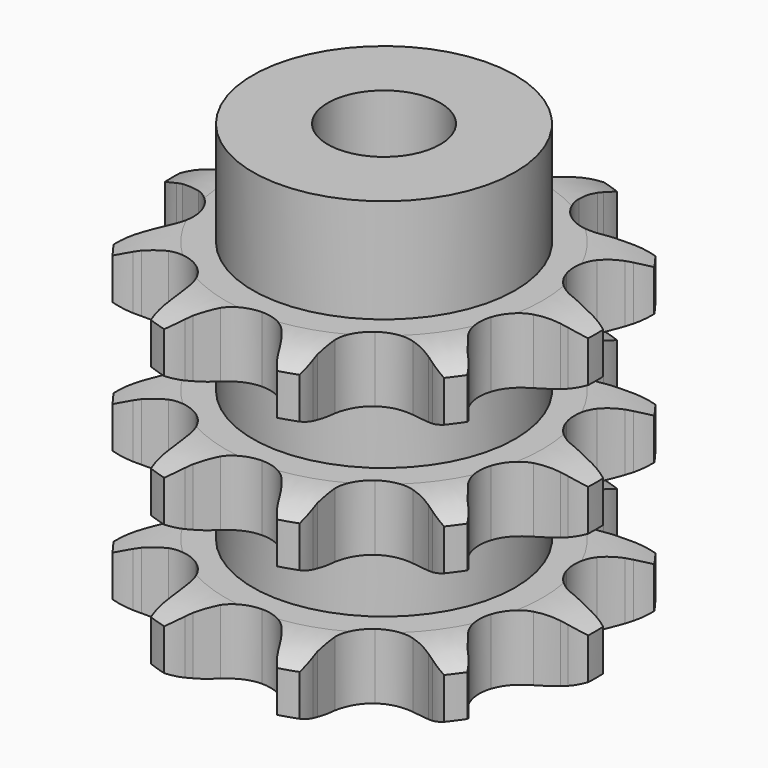
from build123d import *

# Parameters (mm, degrees)
PAD_DEPTH         = 34.9
SKETCH001_R       = 14
PAD001_DEPTH      = 46
SKETCH002_R       = 6
POCKET_DEPTH      = 0.001
POCKET_DEPTH_BACK = 46.001


with BuildPart() as part:
    # Sprocket → Pad (new body)
    with BuildSketch(Plane.XY):
        with BuildLine():
            ThreePointArc((-7.469505, 22.988772), (-6.053079, 21.819793), (-4.976484, 20.331936))
            Line((-4.976484, 20.331936), (-4.627193, 19.691291))
            ThreePointArc((-4.627193, 19.691291), (-3.995067, 18.667791), (-3.2561, 17.718547))
            ThreePointArc((-3.2561, 17.718547), (-1.789142, 16.623117), (0, 16.234657))
            ThreePointArc((0, 16.234657), (1.789142, 16.623117), (3.2561, 17.718547))
            ThreePointArc((3.2561, 17.718547), (3.995067, 18.667791), (4.627193, 19.691291))
            Line((4.627193, 19.691291), (4.976484, 20.331936))
            ThreePointArc((4.976484, 20.331936), (6.053079, 21.819793), (7.469505, 22.988772))
            ThreePointArc((7.469505, 22.988772), (7.928309, 21.210494), (7.924752, 19.373986))
            Line((7.924752, 19.373986), (7.830773, 18.650385))
            ThreePointArc((7.830773, 18.650385), (7.740576, 17.450802), (7.78046, 16.248493))
            ThreePointArc((7.78046, 16.248493), (8.323377, 14.500016), (9.542492, 13.134113))
            ThreePointArc((9.542492, 13.134113), (11.21827, 12.396753), (13.048941, 12.420718))
            Line((13.048941, 12.420718), (15.317728, 13.210793))
            ThreePointArc((15.317728, 13.210793), (15.644733, 13.372692), (15.976873, 13.523778))
            ThreePointArc((15.976873, 13.523778), (17.722396, 14.094673), (19.555417, 14.207842))
            ThreePointArc((19.555417, 14.207842), (18.881352, 12.499507), (17.799002, 11.015831))
            Line((17.799002, 11.015831), (17.297649, 10.485666))
            ThreePointArc((17.297649, 10.485666), (16.519581, 9.568199), (15.845149, 8.572067))
            ThreePointArc((15.845149, 8.572067), (15.256649, 6.838401), (15.440076, 5.016785))
            ThreePointArc((15.440076, 5.016785), (16.3624, 3.43525), (17.85753, 2.378597))
            Line((17.85753, 2.378597), (20.157412, 1.684221))
            ThreePointArc((20.157412, 1.684221), (20.517126, 1.622992), (20.874639, 1.549996))
            ThreePointArc((20.874639, 1.549996), (22.622361, 0.985867), (24.171825, 0))
            ThreePointArc((24.171825, 0), (22.622361, -0.985867), (20.874639, -1.549996))
            Line((20.874639, -1.549996), (20.157412, -1.684221))
            ThreePointArc((20.157412, -1.684221), (18.988668, -1.969131), (17.85753, -2.378597))
            ThreePointArc((17.85753, -2.378597), (16.3624, -3.43525), (15.440076, -5.016785))
            ThreePointArc((15.440076, -5.016785), (15.256649, -6.838401), (15.845149, -8.572067))
            Line((15.845149, -8.572067), (17.297649, -10.485666))
            ThreePointArc((17.297649, -10.485666), (17.552675, -10.746636), (17.799002, -11.015831))
            ThreePointArc((17.799002, -11.015831), (18.881352, -12.499507), (19.555417, -14.207842))
            ThreePointArc((19.555417, -14.207842), (17.722396, -14.094673), (15.976873, -13.523778))
            Line((15.976873, -13.523778), (15.317728, -13.210793))
            ThreePointArc((15.317728, -13.210793), (14.204729, -12.754319), (13.048941, -12.420718))
            ThreePointArc((13.048941, -12.420718), (11.21827, -12.396753), (9.542492, -13.134113))
            ThreePointArc((9.542492, -13.134113), (8.323377, -14.500016), (7.78046, -16.248493))
            Line((7.78046, -16.248493), (7.830773, -18.650385))
            ThreePointArc((7.830773, -18.650385), (7.883698, -19.011415), (7.924752, -19.373986))
            ThreePointArc((7.924752, -19.373986), (7.928309, -21.210494), (7.469505, -22.988772))
            ThreePointArc((7.469505, -22.988772), (6.053079, -21.819793), (4.976484, -20.331936))
            Line((4.976484, -20.331936), (4.627193, -19.691291))
            ThreePointArc((4.627193, -19.691291), (3.995067, -18.667791), (3.2561, -17.718547))
            ThreePointArc((3.2561, -17.718547), (1.789142, -16.623117), (0, -16.234657))
            ThreePointArc((0, -16.234657), (-1.789142, -16.623117), (-3.2561, -17.718547))
            Line((-3.2561, -17.718547), (-4.627193, -19.691291))
            ThreePointArc((-4.627193, -19.691291), (-4.796584, -20.014479), (-4.976484, -20.331936))
            ThreePointArc((-4.976484, -20.331936), (-6.053079, -21.819793), (-7.469505, -22.988772))
            ThreePointArc((-7.469505, -22.988772), (-7.928309, -21.210494), (-7.924752, -19.373986))
            Line((-7.924752, -19.373986), (-7.830773, -18.650385))
            ThreePointArc((-7.830773, -18.650385), (-7.740576, -17.450802), (-7.78046, -16.248493))
            ThreePointArc((-7.78046, -16.248493), (-8.323377, -14.500016), (-9.542492, -13.134113))
            ThreePointArc((-9.542492, -13.134113), (-11.21827, -12.396753), (-13.048941, -12.420718))
            Line((-13.048941, -12.420718), (-15.317728, -13.210793))
            ThreePointArc((-15.317728, -13.210793), (-15.644733, -13.372692), (-15.976873, -13.523778))
            ThreePointArc((-15.976873, -13.523778), (-17.722396, -14.094673), (-19.555417, -14.207842))
            ThreePointArc((-19.555417, -14.207842), (-18.881352, -12.499507), (-17.799002, -11.015831))
            Line((-17.799002, -11.015831), (-17.297649, -10.485666))
            ThreePointArc((-17.297649, -10.485666), (-16.519581, -9.568199), (-15.845149, -8.572067))
            ThreePointArc((-15.845149, -8.572067), (-15.256649, -6.838401), (-15.440076, -5.016785))
            ThreePointArc((-15.440076, -5.016785), (-16.3624, -3.43525), (-17.85753, -2.378597))
            Line((-17.85753, -2.378597), (-20.157412, -1.684221))
            ThreePointArc((-20.157412, -1.684221), (-20.517126, -1.622992), (-20.874639, -1.549996))
            ThreePointArc((-20.874639, -1.549996), (-22.622361, -0.985867), (-24.171825, 0))
            ThreePointArc((-24.171825, 0), (-22.622361, 0.985867), (-20.874639, 1.549996))
            Line((-20.874639, 1.549996), (-20.157412, 1.684221))
            ThreePointArc((-20.157412, 1.684221), (-18.988668, 1.969131), (-17.85753, 2.378597))
            ThreePointArc((-17.85753, 2.378597), (-16.3624, 3.43525), (-15.440076, 5.016785))
            ThreePointArc((-15.440076, 5.016785), (-15.256649, 6.838401), (-15.845149, 8.572067))
            Line((-15.845149, 8.572067), (-17.297649, 10.485666))
            ThreePointArc((-17.297649, 10.485666), (-17.552675, 10.746636), (-17.799002, 11.015831))
            ThreePointArc((-17.799002, 11.015831), (-18.881352, 12.499507), (-19.555417, 14.207842))
            ThreePointArc((-19.555417, 14.207842), (-17.722396, 14.094673), (-15.976873, 13.523778))
            Line((-15.976873, 13.523778), (-15.317728, 13.210793))
            ThreePointArc((-15.317728, 13.210793), (-14.204729, 12.754319), (-13.048941, 12.420718))
            ThreePointArc((-13.048941, 12.420718), (-11.21827, 12.396753), (-9.542492, 13.134113))
            ThreePointArc((-9.542492, 13.134113), (-8.323377, 14.500016), (-7.78046, 16.248493))
            Line((-7.78046, 16.248493), (-7.830773, 18.650385))
            ThreePointArc((-7.830773, 18.650385), (-7.883698, 19.011415), (-7.924752, 19.373986))
            ThreePointArc((-7.924752, 19.373986), (-7.928309, 21.210494), (-7.469505, 22.988772))
        make_face()
    extrude(amount=PAD_DEPTH)

    # Sketch → Groove (revolve, cut)
    with BuildSketch(Plane.XZ):
        with BuildLine():
            ThreePointArc((16.933431, 0), (19.84032, 0.329167), (22.6, 1.3))
            Line((22.6, 1.3), (22.6, 5.7))
            ThreePointArc((22.6, 5.7), (19.84032, 6.670833), (16.933431, 7))
            Line((14, 7), (16.933431, 7))
            Line((14, 7), (14, 13.95))
            Line((14, 13.95), (16.933431, 13.95))
            ThreePointArc((16.933431, 13.95), (19.84032, 14.279167), (22.6, 15.25))
            Line((22.6, 19.65), (22.6, 15.25))
            ThreePointArc((22.6, 19.65), (19.84032, 20.620833), (16.933431, 20.95))
            Line((14, 20.95), (16.933431, 20.95))
            Line((14, 27.9), (14, 20.95))
            Line((16.933431, 27.9), (14, 27.9))
            ThreePointArc((16.933431, 27.9), (19.84032, 28.229167), (22.6, 29.2))
            Line((22.6, 29.2), (22.6, 33.6))
            ThreePointArc((22.6, 33.6), (19.84032, 34.570833), (16.933431, 34.9))
            Line((16.933431, 34.9), (32.6, 34.9))
            Line((32.6, 34.9), (32.6, 0))
            Line((16.933431, 0), (32.6, 0))
        make_face()
    revolve(axis=Axis((0, 0, 0), (0, 0, 1)), mode=Mode.SUBTRACT)

    # Sketch001 → Pad001 (join)
    with BuildSketch(Plane.XY):
        Circle(SKETCH001_R)
    extrude(amount=PAD001_DEPTH)

    # Sketch002 → Pocket (cut, two sides)
    with BuildSketch(Plane.XY) as pocket_sk:
        Circle(SKETCH002_R)
    extrude(amount=-POCKET_DEPTH, mode=Mode.SUBTRACT)
    extrude(pocket_sk.sketch, amount=POCKET_DEPTH_BACK, mode=Mode.SUBTRACT)


solid = part.part
